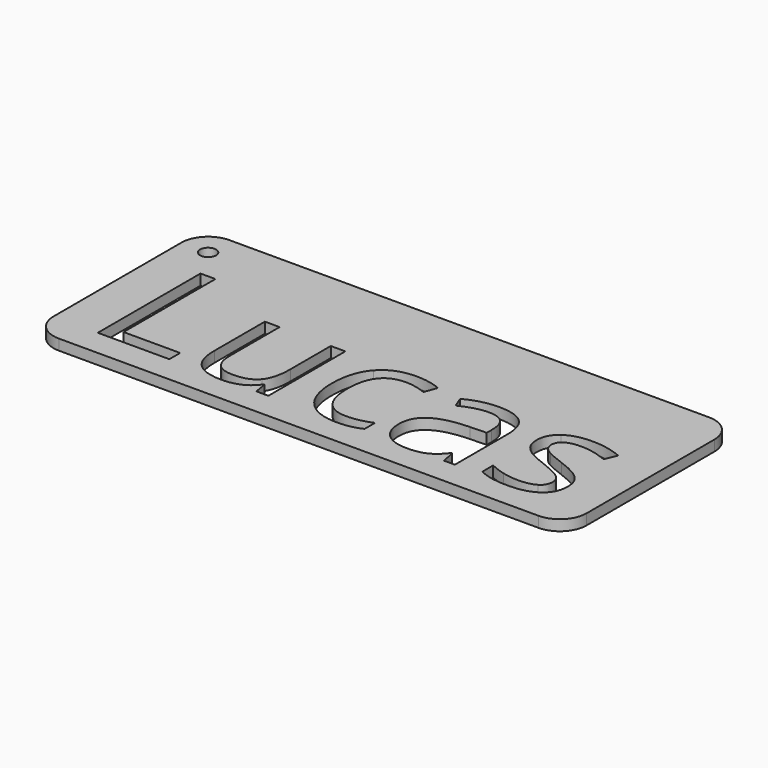
from build123d import *

# Parameters (mm, degrees)
F0_R     = 1.5
F1_DEPTH = 2


with BuildPart() as f1:
    # F0 (on Top) → F1 (new body)
    with BuildSketch(Plane.XY):
        with BuildLine():
            ThreePointArc((0, 5), (1.4644660941, 1.4644660941), (5, 0))
            Line((5, 0), (95, 0))
            ThreePointArc((95, 0), (98.5355339059, 1.4644660941), (100, 5))
            Line((100, 5), (100, 35))
            ThreePointArc((100, 35), (98.5355339059, 38.5355339059), (95, 40))
            Line((95, 40), (5, 40))
            ThreePointArc((5, 40), (1.4644660941, 38.5355339059), (0, 35))
            Line((0, 35), (0, 5))
        make_face()
        Polygon((21.7325409239, 5), (8.3096175434, 5), (8.3096175434, 29.0790486555), (11.1080361987, 29.0790486555), (11.1080361987, 7.5349140738), (21.7325409239, 7.5349140738), align=None, mode=Mode.SUBTRACT)
        with BuildLine():
            Line((25.2108013994, 23.0500638312), (27.9775995049, 23.0500638312))
            Line((27.9775995049, 23.0500638312), (27.9775995049, 11.3399202304))
            add(Edge.make_bspline(
                [(27.9775995049, 11.3399202304), (27.9775995049, 9.1317518376), (28.9815519603, 8.0461129619)],
                knots=[0, 0, 0, 1, 1, 1], degree=2))
            add(Edge.make_bspline(
                [(28.9815519603, 8.0461129619), (29.9855044157, 6.9604740862), (32.1251616173, 6.9604740862)],
                knots=[0, 0, 0, 1, 1, 1], degree=2))
            add(Edge.make_bspline(
                [(32.1251616173, 6.9604740862), (34.960470914, 6.9604740862), (36.2674536382, 8.5072459795)],
                knots=[0, 0, 0, 1, 1, 1], degree=2))
            add(Edge.make_bspline(
                [(36.2674536382, 8.5072459795), (37.5744363623, 10.0540178727), (37.5744363623, 13.563898898)],
                knots=[0, 0, 0, 1, 1, 1], degree=2))
            Line((37.5744363623, 13.563898898), (37.5744363623, 23.0500638312))
            Line((37.5744363623, 23.0500638312), (40.3096139181, 23.0500638312))
            Line((40.3096139181, 23.0500638312), (40.3096139181, 5))
            Line((40.3096139181, 5), (38.0540147006, 5))
            Line((38.0540147006, 5), (37.6587578284, 7.418972058))
            Line((37.6587578284, 7.418972058), (37.5111952628, 7.418972058))
            add(Edge.make_bspline(
                [(37.5111952628, 7.418972058), (36.6732506937, 6.0856388757), (35.1818147625, 5.3768115515)],
                knots=[0, 0, 0, 1, 1, 1], degree=2))
            add(Edge.make_bspline(
                [(35.1818147625, 5.3768115515), (33.6903788313, 4.6679842273), (31.7773355698, 4.6679842273)],
                knots=[0, 0, 0, 1, 1, 1], degree=2))
            add(Edge.make_bspline(
                [(31.7773355698, 4.6679842273), (28.4835283013, 4.6679842273), (26.8471648503, 6.2332014413)],
                knots=[0, 0, 0, 1, 1, 1], degree=2))
            add(Edge.make_bspline(
                [(26.8471648503, 6.2332014413), (25.2108013994, 7.7984186553), (25.2108013994, 11.2397884894)],
                knots=[0, 0, 0, 1, 1, 1], degree=2))
            Line((25.2108013994, 11.2397884894), (25.2108013994, 23.0500638312))
        make_face(mode=Mode.SUBTRACT)
        with BuildLine():
            add(Edge.make_bspline(
                [(57.880099411, 5.611330629), (56.0724579821, 4.6679842273), (53.3214701514, 4.6679842273)],
                knots=[0, 0, 0, 1, 1, 1], degree=2))
            add(Edge.make_bspline(
                [(53.3214701514, 4.6679842273), (49.400521979, 4.6679842273), (47.2503245942, 7.0816861937)],
                knots=[0, 0, 0, 1, 1, 1], degree=2))
            add(Edge.make_bspline(
                [(47.2503245942, 7.0816861937), (45.1001272093, 9.49538816), (45.1001272093, 13.9117249456)],
                knots=[0, 0, 0, 1, 1, 1], degree=2))
            add(Edge.make_bspline(
                [(45.1001272093, 13.9117249456), (45.1001272093, 18.4387336554), (47.2845801898, 20.9104066296)],
                knots=[0, 0, 0, 1, 1, 1], degree=2))
            add(Edge.make_bspline(
                [(47.2845801898, 20.9104066296), (49.4690331702, 23.3820796039), (53.5006532668, 23.3820796039)],
                knots=[0, 0, 0, 1, 1, 1], degree=2))
            add(Edge.make_bspline(
                [(53.5006532668, 23.3820796039), (54.8023658993, 23.3820796039), (56.1040785318, 23.1001297017)],
                knots=[0, 0, 0, 1, 1, 1], degree=2))
            add(Edge.make_bspline(
                [(56.1040785318, 23.1001297017), (57.4057911643, 22.8181797995), (58.1436039925, 22.4387332022)],
                knots=[0, 0, 0, 1, 1, 1], degree=2))
            Line((58.1436039925, 22.4387332022), (57.3056594234, 20.1198928852))
            add(Edge.make_bspline(
                [(57.3056594234, 20.1198928852), (56.3992036631, 20.4835292076), (55.3293750623, 20.720683331)],
                knots=[0, 0, 0, 1, 1, 1], degree=2))
            add(Edge.make_bspline(
                [(55.3293750623, 20.720683331), (54.2595464615, 20.9578374543), (53.4374121673, 20.9578374543)],
                knots=[0, 0, 0, 1, 1, 1], degree=2))
            add(Edge.make_bspline(
                [(53.4374121673, 20.9578374543), (47.935436506, 20.9578374543), (47.935436506, 13.9433454954)],
                knots=[0, 0, 0, 1, 1, 1], degree=2))
            add(Edge.make_bspline(
                [(47.935436506, 13.9433454954), (47.935436506, 10.6179176771), (49.2766748257, 8.8392617521)],
                knots=[0, 0, 0, 1, 1, 1], degree=2))
            add(Edge.make_bspline(
                [(49.2766748257, 8.8392617521), (50.6179131455, 7.0606058272), (53.2529589602, 7.0606058272)],
                knots=[0, 0, 0, 1, 1, 1], degree=2))
            add(Edge.make_bspline(
                [(53.2529589602, 7.0606058272), (55.5085581777, 7.0606058272), (57.880099411, 8.030302687)],
                knots=[0, 0, 0, 1, 1, 1], degree=2))
            Line((57.880099411, 8.030302687), (57.880099411, 5.611330629))
        make_face(mode=Mode.SUBTRACT)
        with BuildLine():
            Line((75.2924821551, 5), (73.2634968777, 5))
            Line((73.2634968777, 5), (72.7206774398, 7.5718047152))
            Line((72.7206774398, 7.5718047152), (72.5889251491, 7.5718047152))
            add(Edge.make_bspline(
                [(72.5889251491, 7.5718047152), (71.2397816919, 5.8748352105), (69.8985433722, 5.2714097189)],
                knots=[0, 0, 0, 1, 1, 1], degree=2))
            add(Edge.make_bspline(
                [(69.8985433722, 5.2714097189), (68.5573050525, 4.6679842273), (66.54413005, 4.6679842273)],
                knots=[0, 0, 0, 1, 1, 1], degree=2))
            add(Edge.make_bspline(
                [(66.54413005, 4.6679842273), (63.8616534106, 4.6679842273), (62.3385969296, 6.0540183259)],
                knots=[0, 0, 0, 1, 1, 1], degree=2))
            add(Edge.make_bspline(
                [(62.3385969296, 6.0540183259), (60.8155404487, 7.4400524245), (60.8155404487, 9.9907767732)],
                knots=[0, 0, 0, 1, 1, 1], degree=2))
            add(Edge.make_bspline(
                [(60.8155404487, 9.9907767732), (60.8155404487, 15.455861793), (69.5586224621, 15.7193663745)],
                knots=[0, 0, 0, 1, 1, 1], degree=2))
            Line((69.5586224621, 15.7193663745), (72.6205456989, 15.8194981155))
            Line((72.6205456989, 15.8194981155), (72.6205456989, 16.9420276326))
            add(Edge.make_bspline(
                [(72.6205456989, 16.9420276326), (72.6205456989, 19.0658745593), (71.708819847, 20.0777321522)],
                knots=[0, 0, 0, 1, 1, 1], degree=2))
            add(Edge.make_bspline(
                [(71.708819847, 20.0777321522), (70.7970939951, 21.089589745), (68.7839189926, 21.089589745)],
                knots=[0, 0, 0, 1, 1, 1], degree=2))
            add(Edge.make_bspline(
                [(68.7839189926, 21.089589745), (66.5283197751, 21.089589745), (63.6824702951, 19.7088257381)],
                knots=[0, 0, 0, 1, 1, 1], degree=2))
            Line((63.6824702951, 19.7088257381), (62.8392556344, 21.801052115))
            add(Edge.make_bspline(
                [(62.8392556344, 21.801052115), (64.1725888167, 22.5230546683), (65.761521443, 22.9341218154)],
                knots=[0, 0, 0, 1, 1, 1], degree=2))
            add(Edge.make_bspline(
                [(65.761521443, 22.9341218154), (67.3504540693, 23.3451889625), (68.9525619247, 23.3451889625)],
                knots=[0, 0, 0, 1, 1, 1], degree=2))
            add(Edge.make_bspline(
                [(68.9525619247, 23.3451889625), (72.177858002, 23.3451889625), (73.7351700785, 21.9143590851)],
                knots=[0, 0, 0, 1, 1, 1], degree=2))
            add(Edge.make_bspline(
                [(73.7351700785, 21.9143590851), (75.2924821551, 20.4835292076), (75.2924821551, 17.3214742299)],
                knots=[0, 0, 0, 1, 1, 1], degree=2))
            Line((75.2924821551, 17.3214742299), (75.2924821551, 5))
        make_face(mode=Mode.SUBTRACT)
        with BuildLine():
            add(Edge.make_bspline(
                [(91.4347728164, 12.9051374443), (92.5625724251, 11.7193668277), (92.5625724251, 9.922265582)],
                knots=[0, 0, 0, 1, 1, 1], degree=2))
            add(Edge.make_bspline(
                [(92.5625724251, 9.922265582), (92.5625724251, 7.4031617831), (90.686419805, 6.0355730052)],
                knots=[0, 0, 0, 1, 1, 1], degree=2))
            add(Edge.make_bspline(
                [(90.686419805, 6.0355730052), (88.8102671849, 4.6679842273), (85.4163281755, 4.6679842273)],
                knots=[0, 0, 0, 1, 1, 1], degree=2))
            add(Edge.make_bspline(
                [(85.4163281755, 4.6679842273), (81.8273957757, 4.6679842273), (79.8194908649, 5.8063240193)],
                knots=[0, 0, 0, 1, 1, 1], degree=2))
            Line((79.8194908649, 5.8063240193), (79.8194908649, 8.3412380931))
            add(Edge.make_bspline(
                [(79.8194908649, 8.3412380931), (81.1212034974, 7.6824766394), (82.6100043827, 7.3056650879)],
                knots=[0, 0, 0, 1, 1, 1], degree=2))
            add(Edge.make_bspline(
                [(82.6100043827, 7.3056650879), (84.0988052681, 6.9288535364), (85.4848393666, 6.9288535364)],
                knots=[0, 0, 0, 1, 1, 1], degree=2))
            add(Edge.make_bspline(
                [(85.4848393666, 6.9288535364), (87.6244965682, 6.9288535364), (88.7760115893, 7.6113304024)],
                knots=[0, 0, 0, 1, 1, 1], degree=2))
            add(Edge.make_bspline(
                [(88.7760115893, 7.6113304024), (89.9275266104, 8.2938072685), (89.9275266104, 9.6956516419)],
                knots=[0, 0, 0, 1, 1, 1], degree=2))
            add(Edge.make_bspline(
                [(89.9275266104, 9.6956516419), (89.9275266104, 10.7496699678), (89.0158007584, 11.4980229792)],
                knots=[0, 0, 0, 1, 1, 1], degree=2))
            add(Edge.make_bspline(
                [(89.0158007584, 11.4980229792), (88.1040749065, 12.2463759906), (85.4479487252, 13.2687737668)],
                knots=[0, 0, 0, 1, 1, 1], degree=2))
            add(Edge.make_bspline(
                [(85.4479487252, 13.2687737668), (82.9288449263, 14.2068500768), (81.8669214629, 14.9077722636)],
                knots=[0, 0, 0, 1, 1, 1], degree=2))
            add(Edge.make_bspline(
                [(81.8669214629, 14.9077722636), (80.8049979996, 15.6086944503), (80.2858939741, 16.4967048899)],
                knots=[0, 0, 0, 1, 1, 1], degree=2))
            add(Edge.make_bspline(
                [(80.2858939741, 16.4967048899), (79.7667899486, 17.3847153295), (79.7667899486, 18.6179167708)],
                knots=[0, 0, 0, 1, 1, 1], degree=2))
            add(Edge.make_bspline(
                [(79.7667899486, 18.6179167708), (79.7667899486, 20.8260851636), (81.5638911942, 22.1040823837)],
                knots=[0, 0, 0, 1, 1, 1], degree=2))
            add(Edge.make_bspline(
                [(81.5638911942, 22.1040823837), (83.3609924399, 23.3820796039), (86.4861567763, 23.3820796039)],
                knots=[0, 0, 0, 1, 1, 1], degree=2))
            add(Edge.make_bspline(
                [(86.4861567763, 23.3820796039), (89.4005174474, 23.3820796039), (92.1883959194, 22.1963089873)],
                knots=[0, 0, 0, 1, 1, 1], degree=2))
            Line((92.1883959194, 22.1963089873), (91.213428968, 19.9723303196))
            add(Edge.make_bspline(
                [(91.213428968, 19.9723303196), (88.4993317787, 21.089589745), (86.291163386, 21.089589745)],
                knots=[0, 0, 0, 1, 1, 1], degree=2))
            add(Edge.make_bspline(
                [(86.291163386, 21.089589745), (84.3464995747, 21.089589745), (83.3583573941, 20.4808941618)],
                knots=[0, 0, 0, 1, 1, 1], degree=2))
            add(Edge.make_bspline(
                [(83.3583573941, 20.4808941618), (82.3702152136, 19.8721985786), (82.3702152136, 18.8023699778)],
                knots=[0, 0, 0, 1, 1, 1], degree=2))
            add(Edge.make_bspline(
                [(82.3702152136, 18.8023699778), (82.3702152136, 18.0750973329), (82.7417566735, 17.5665334907)],
                knots=[0, 0, 0, 1, 1, 1], degree=2))
            add(Edge.make_bspline(
                [(82.7417566735, 17.5665334907), (83.1132981333, 17.0579696484), (83.9354324275, 16.5968366308)],
                knots=[0, 0, 0, 1, 1, 1], degree=2))
            add(Edge.make_bspline(
                [(83.9354324275, 16.5968366308), (84.7575667218, 16.1357036133), (87.0974874053, 15.2608684028)],
                knots=[0, 0, 0, 1, 1, 1], degree=2))
            add(Edge.make_bspline(
                [(87.0974874053, 15.2608684028), (90.3069732077, 14.090908061), (91.4347728164, 12.9051374443)],
                knots=[0, 0, 0, 1, 1, 1], degree=2))
        make_face(mode=Mode.SUBTRACT)
        with Locations((5, 35)):
            Circle(F0_R, mode=Mode.SUBTRACT)
    extrude(amount=F1_DEPTH)


solid = f1.part
